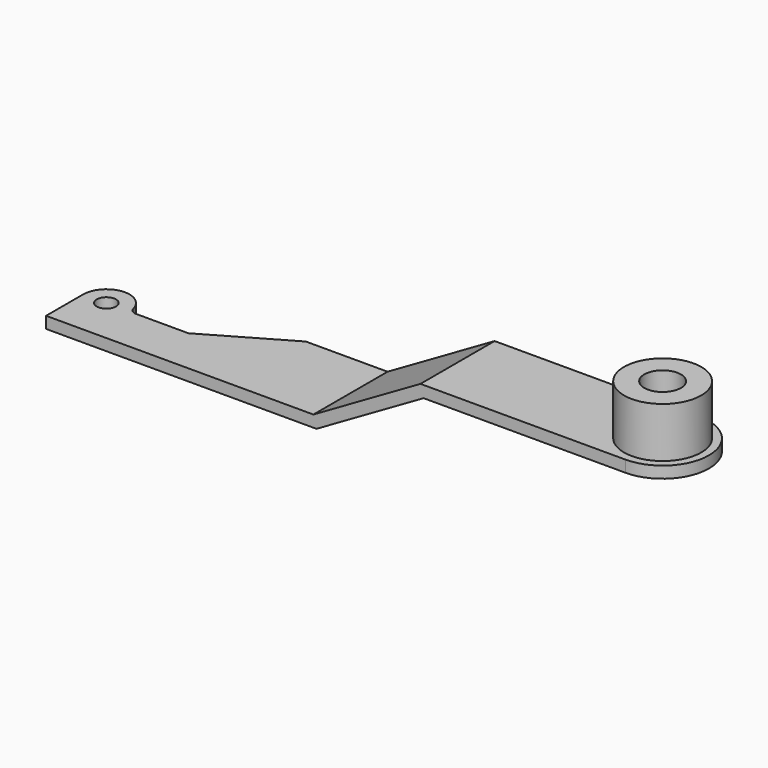
from build123d import *

# Parameters (mm, degrees)
F0_R          = 7.9375
F1_DEPTH      = 9.525
F1_DEPTH_BACK = 50.8
F2_R          = 31.75
F3_DEPTH      = 41.275
F4_R          = 15.08125
F5_DEPTH      = 101.601
F7_DEPTH      = 76.201


with BuildPart() as f1:
    # F0 (on Top) → F1 (new body, two sides)
    with BuildSketch(Plane.XY) as f1_sk:
        with BuildLine():
            Line((-476.25, -38.1), (0, -38.1))
            ThreePointArc((0, -38.1), (38.1, 0), (0, 38.1))
            Line((0, 38.1), (-180.615451, 38.1))
            Line((-180.615451, 38.1), (-323.73747, 38.1))
            Line((-323.73747, 38.1), (-389.728606, 0))
            Line((-389.728606, 0), (-432.606556, 0))
            ThreePointArc((-432.606556, 0), (-436.495121, 1.329884), (-438.754917, 4.7625))
            ThreePointArc((-438.754917, 4.7625), (-459.600382, 18.898166), (-476.25, 0))
            Line((-476.25, 0), (-476.25, -38.1))
        make_face()
        with Locations((-457.2, 0)):
            Circle(F0_R, mode=Mode.SUBTRACT)
    extrude(amount=F1_DEPTH)
    extrude(f1_sk.sketch, amount=-F1_DEPTH_BACK)

    # F2 (on face) → F3 (join)
    with BuildSketch(Plane.XY.offset(9.525)):
        Circle(F2_R)
    extrude(amount=F3_DEPTH)

    # F4 (on face) → F5 (cut, through all)
    with BuildSketch(Plane.XY.offset(50.8)):
        Circle(F4_R)
    extrude(amount=-F5_DEPTH, mode=Mode.SUBTRACT)

    # F6 (on face) → F7 (cut, through all)
    with BuildSketch(Plane(origin=(0, 38.1, 0), x_dir=(-1, 0, 0), z_dir=(0, 1, 0))):
        Polygon((-101.6, -50.8), (254, -50.8), (166.011819, 0), (-101.6, 0), align=None)
        Polygon((524.164035, 9.525), (168.564035, 9.525), (256.552216, -41.275), (524.164035, -41.275), align=None)
    extrude(amount=-F7_DEPTH, mode=Mode.SUBTRACT)


solid = f1.part
